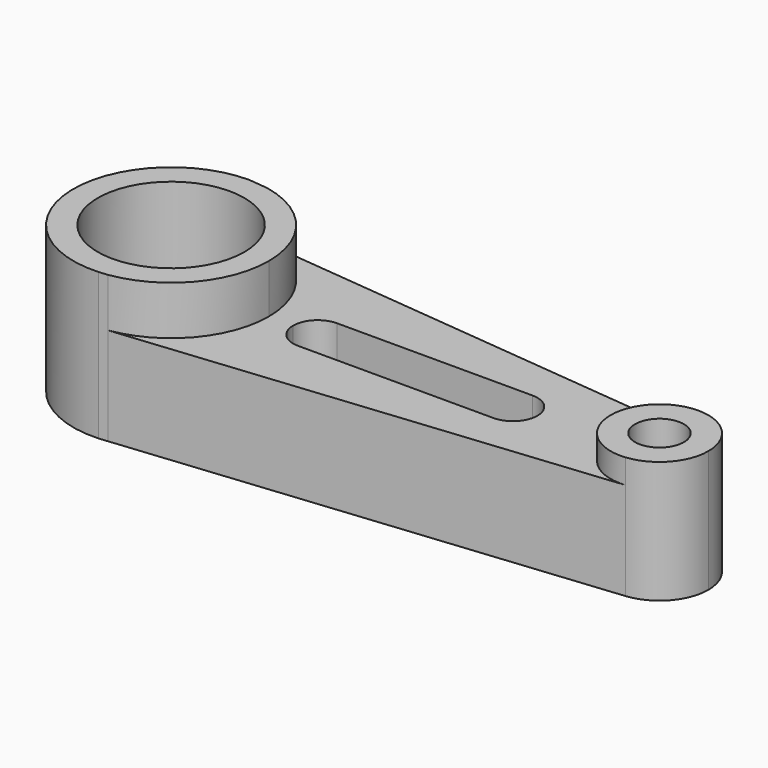
from build123d import *

# Parameters (mm, degrees)
F0_R     = 19.05
F1_DEPTH = 38.1
F2_DEPTH = 25.4
F3_DEPTH = 31.75


with BuildPart() as f1:
    # F0 (on Top) → F1 (new body)
    with BuildSketch(Plane.XY):
        with BuildLine():
            ThreePointArc((-37.6632987603, -10.0267366713), (-22.1449503188, -1.4965177663), (-15.972041403, 15.1010413445))
            ThreePointArc((-15.972041403, 15.1010413445), (-21.7134087863, 31.1851379508), (-36.3419755478, 39.9979977347))
            Line((-36.3419755478, 39.9979977347), (-41.3982813704, 40.5010277907))
            ThreePointArc((-41.3982813704, 40.5010277907), (-66.762647964, 14.4103181957), (-40.0173078877, -10.2628049155))
            Line((-40.0173078877, -10.2628049155), (-37.6632987603, -10.0267366713))
        make_face()
        with Locations((-41.372041403, 15.1010413445)):
            Circle(F0_R, mode=Mode.SUBTRACT)
    extrude(amount=F1_DEPTH)

    # F0 (on Top) → F2 (join)
    with BuildSketch(Plane.XY):
        with BuildLine():
            ThreePointArc((-36.3419755478, 39.9979977347), (-21.7134087863, 31.1851379508), (-15.972041403, 15.1010413445))
            Line((-15.972041403, 15.1010413445), (-9.622041403, 15.1010413445))
            ThreePointArc((-9.622041403, 15.1010413445), (-7.7621694636, 19.5911694051), (-3.272041403, 21.4510413445))
            Line((-3.272041403, 21.4510413445), (47.527958597, 21.4510413445))
            ThreePointArc((47.527958597, 21.4510413445), (52.0180866575, 19.5911694051), (53.877958597, 15.1010413445))
            Line((53.877958597, 15.1010413445), (72.927958597, 15.1010413445))
            ThreePointArc((72.927958597, 15.1010413445), (77.1037936501, 24.5153183725), (86.8852203227, 27.7386555558))
            Line((86.8852203227, 27.7386555558), (-36.3419755478, 39.9979977347))
        make_face()
        with BuildLine():
            Line((-9.622041403, 15.1010413445), (-15.972041403, 15.1010413445))
            ThreePointArc((-15.972041403, 15.1010413445), (-22.1449503188, -1.4965177663), (-37.6632987603, -10.0267366713))
            Line((-37.6632987603, -10.0267366713), (86.8952026298, 2.4644242117))
            ThreePointArc((86.8952026298, 2.4644242117), (77.1075125763, 5.6833983481), (72.927958597, 15.1010413445))
            Line((72.927958597, 15.1010413445), (53.877958597, 15.1010413445))
            ThreePointArc((53.877958597, 15.1010413445), (52.0180866575, 10.610913284), (47.527958597, 8.7510413445))
            Line((47.527958597, 8.7510413445), (-3.272041403, 8.7510413445))
            ThreePointArc((-3.272041403, 8.7510413445), (-7.7621694636, 10.610913284), (-9.622041403, 15.1010413445))
        make_face()
    extrude(amount=F2_DEPTH)

    # F0 (on Top) → F3 (join)
    with BuildSketch(Plane.XY):
        with BuildLine():
            ThreePointArc((98.327958597, 15.1010413445), (95.0422356249, 23.6252062914), (86.8852203227, 27.7386555558))
            ThreePointArc((86.8852203227, 27.7386555558), (77.1037936501, 24.5153183725), (72.927958597, 15.1010413445))
            ThreePointArc((72.927958597, 15.1010413445), (77.1075125763, 5.6833983481), (86.8952026298, 2.4644242117))
            ThreePointArc((86.8952026298, 2.4644242117), (95.0456015934, 6.5805953238), (98.327958597, 15.1010413445))
        make_face()
        with BuildLine():
            ThreePointArc((91.977958597, 15.1010413445), (85.627958597, 8.7510413445), (79.277958597, 15.1010413445))
            ThreePointArc((79.277958597, 15.1010413445), (85.627958597, 21.4510413445), (91.977958597, 15.1010413445))
        make_face(mode=Mode.SUBTRACT)
    extrude(amount=F3_DEPTH)


solid = f1.part
